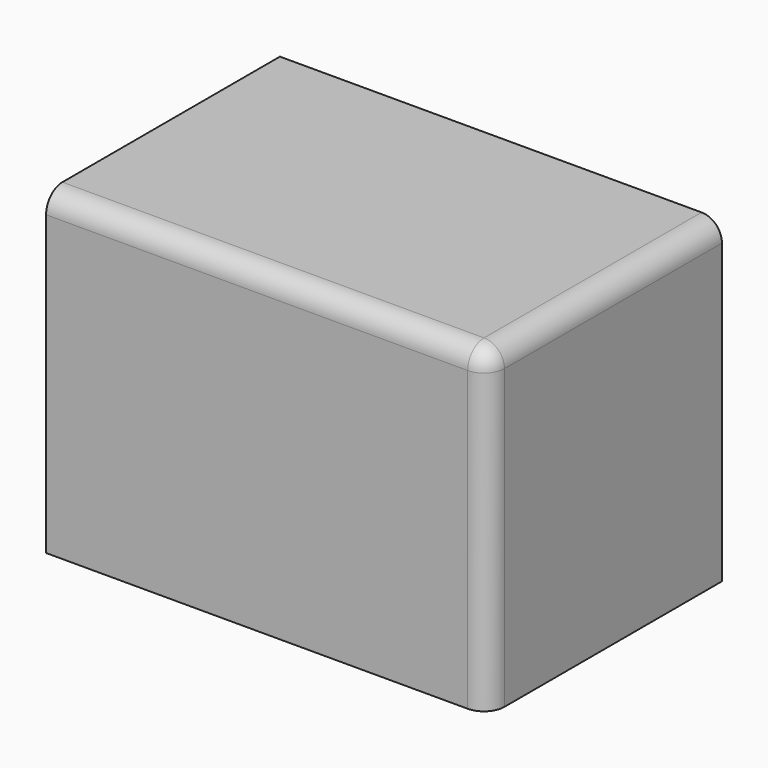
from build123d import *

# Parameters (mm, degrees)
F0_W     = 108.355268
F0_H     = 71.644738
F1_DEPTH = 78
F2_R     = 5


with BuildPart() as f1:
    # F0 (on Top) → F1 (new body)
    with BuildSketch(Plane.XY):
        Rectangle(F0_W, F0_H)
    extrude(amount=F1_DEPTH)

    # F2
    f2_edges = [f1.edges().sort_by_distance(p)[0] for p in [
        (0, -35.822369, 78),
        (54.177634, 0, 78),
        (54.177634, -35.822369, 39),
    ]]
    fillet(f2_edges, radius=F2_R)


solid = f1.part
